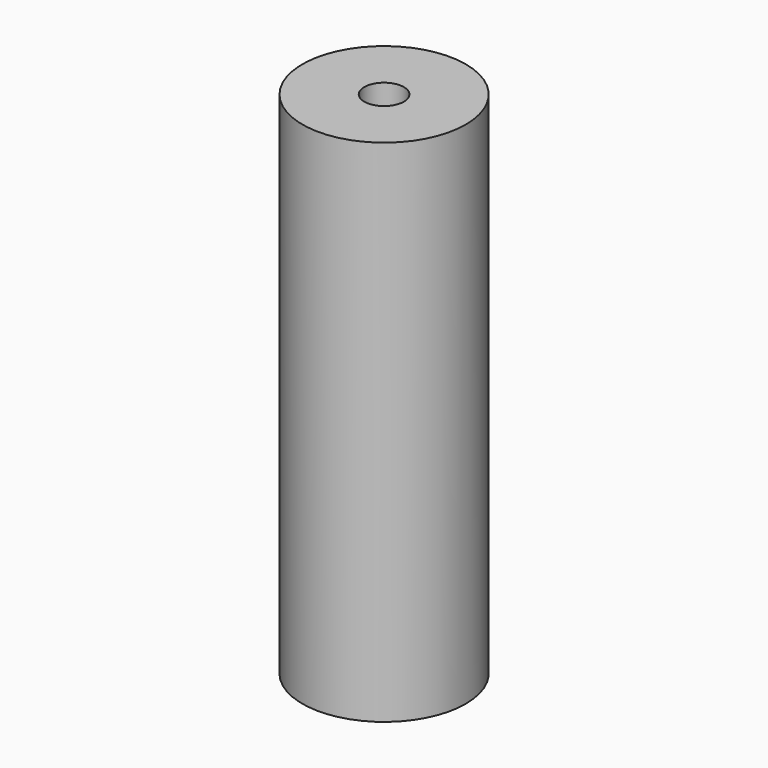
from build123d import *

# Parameters (mm, degrees)
F0_R     = 8.25
F0_R_2   = 7.5
F1_DEPTH = 50
F2_R     = 8.25
F3_DEPTH = 1.5
F4_R     = 2
F5_DEPTH = 25
F6_R     = 3.5
F6_R_2   = 2
F7_DEPTH = 5


with BuildPart() as f1:
    # F0 (on Top) → F1 (new body)
    with BuildSketch(Plane.XY):
        Circle(F0_R)
        Circle(F0_R_2, mode=Mode.SUBTRACT)
    extrude(amount=F1_DEPTH)

    # F2 (on face) → F3 (join)
    with BuildSketch(Plane.XY.offset(50)):
        Circle(F2_R)
    extrude(amount=F3_DEPTH)

    # F4 (on face) → F5 (cut)
    with BuildSketch(Plane.XY.offset(51.5)):
        Circle(F4_R)
    extrude(amount=-F5_DEPTH, mode=Mode.SUBTRACT)

    # F6 (on face) → F7 (join)
    with BuildSketch(Plane(origin=(0, 0, 50), x_dir=(1, 0, 0), z_dir=(0, 0, -1))):
        Circle(F6_R)
        Circle(F6_R_2, mode=Mode.SUBTRACT)
    extrude(amount=F7_DEPTH)


solid = f1.part
